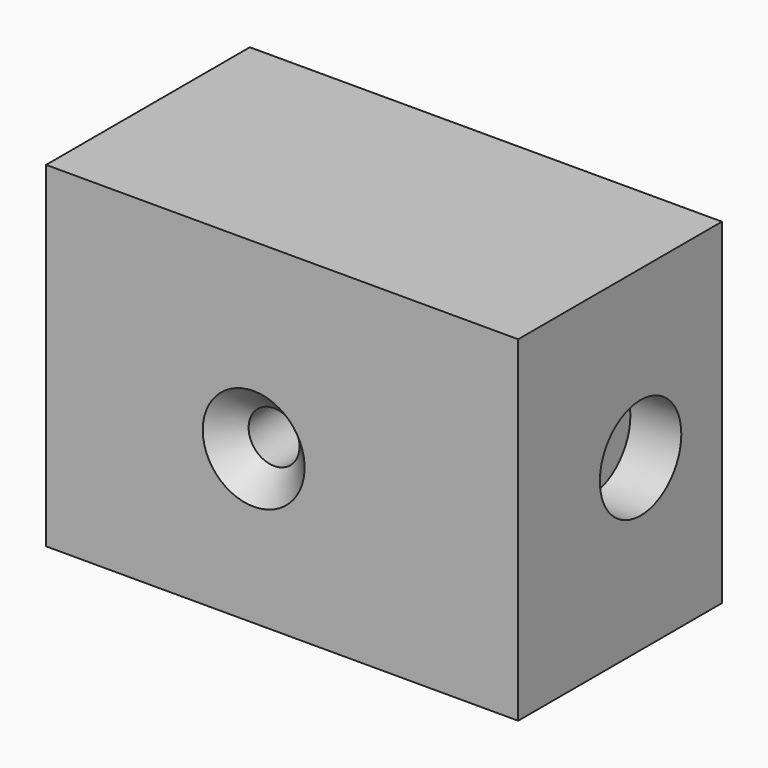
from build123d import *

# Parameters (mm, degrees)
F0_W           = 46.347648
F0_H           = 32.971419
F1_DEPTH       = 25
F3_D           = 5
F3_CSINK_D     = 10
F3_CSINK_ANGLE = 90
F5_D           = 5
F5_CBORE_D     = 10
F5_CBORE_DEPTH = 5


with BuildPart() as f1:
    # F0 (on Front) → F1 (new body)
    with BuildSketch(Plane.XZ):
        with Locations((47.167972, 16.485709)):
            Rectangle(F0_W, F0_H)
    extrude(amount=F1_DEPTH)

    # F3 (through all)
    with Locations(Plane.XZ.offset(25)):
        with Locations((44.375189, 15.056089)):
            CounterSinkHole(F3_D / 2, F3_CSINK_D / 2, counter_sink_angle=F3_CSINK_ANGLE)

    # F5 (through all)
    with Locations(Plane.YZ.offset(70.341796)):
        with Locations((-9.982947, 16.622152)):
            CounterBoreHole(F5_D / 2, F5_CBORE_D / 2, F5_CBORE_DEPTH)


solid = f1.part
